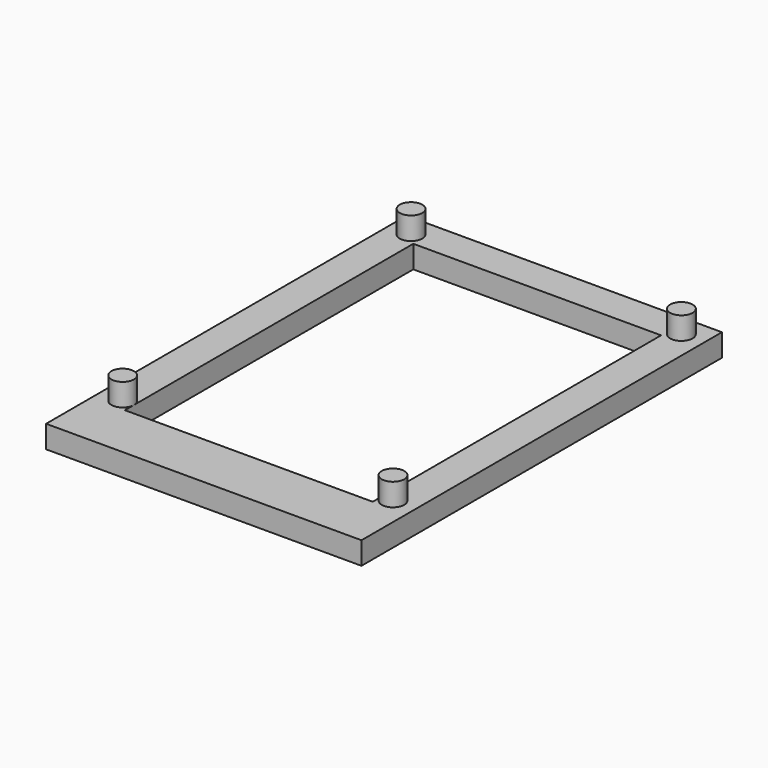
from build123d import *

# Parameters (mm, degrees)
F0_W     = 88.9
F0_H     = 127
F0_W_2   = 69.85
F0_H_2   = 101.6
F1_DEPTH = 6.35
F2_R     = 3.175
F3_DEPTH = 6.35


with BuildPart() as f1:
    # F0 (on Top) → F1 (new body)
    with BuildSketch(Plane.XY):
        with Locations((-20.780801, 12.657491)):
            Rectangle(F0_W, F0_H)
        with Locations((-20.780801, 15.832491)):
            Rectangle(F0_W_2, F0_H_2, mode=Mode.SUBTRACT)
    extrude(amount=F1_DEPTH)

    # F2 (on face) → F3 (join)
    with BuildSketch(Plane.XY.offset(6.35)):
        with Locations((-58.880801, 69.807491)):
            Circle(F2_R)
        with Locations((-58.880801, -31.792509)):
            Circle(F2_R)
        with Locations((17.319199, 69.807491)):
            Circle(F2_R)
        with Locations((17.319199, -31.792509)):
            Circle(F2_R)
    extrude(amount=F3_DEPTH)


solid = f1.part
